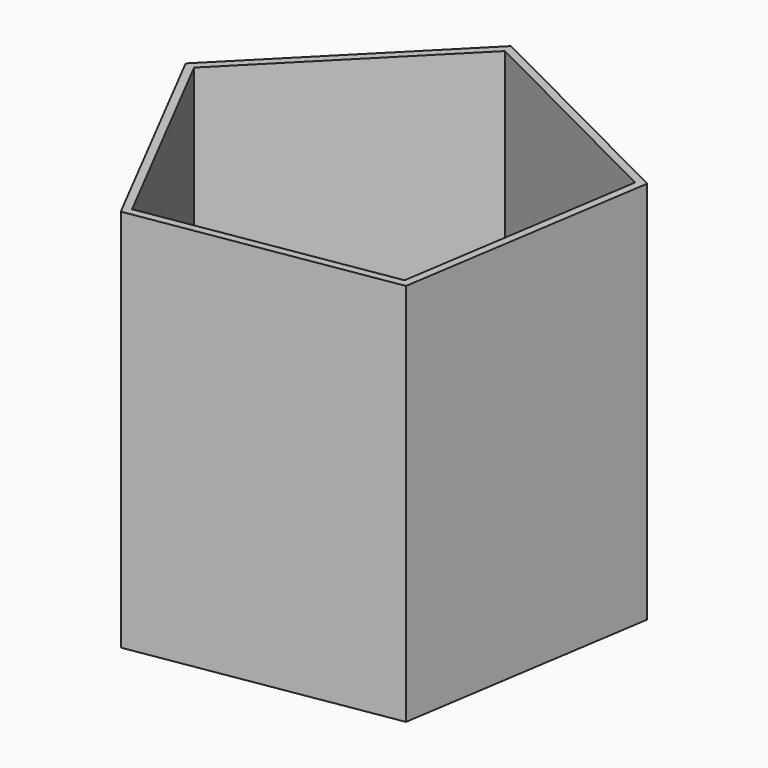
from build123d import *

# Parameters (mm, degrees)
F1_DEPTH = 152.4
F2_T     = 3.175


with BuildPart() as f1:
    # F0 (on Top) → F1 (new body)
    with BuildSketch(Plane.XY):
        Polygon((74.9285208503, 38.553677408), (-13.5125398199, 83.1749995257), (-83.2797297333, 12.8512993132), (-37.9571637292, -75.2324597506), (59.8209124321, -59.3475164963), align=None)
    extrude(amount=F1_DEPTH)

    # F2
    f2_openings = [f1.faces().sort_by_distance(p)[0] for p in [
        (0, 0, 152.4),
    ]]
    offset(amount=F2_T, openings=f2_openings, kind=Kind.INTERSECTION)


solid = f1.part
